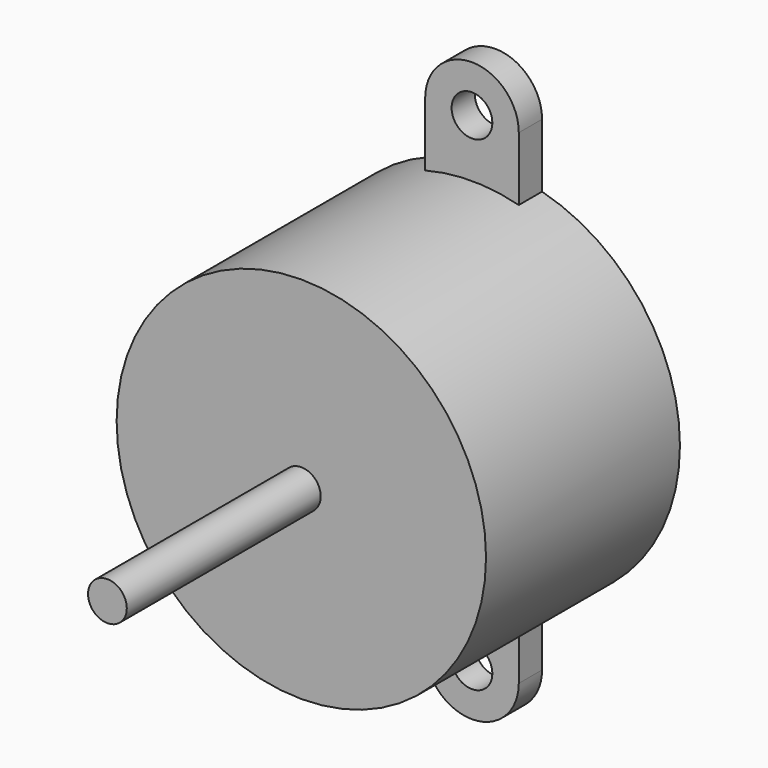
from build123d import *

# Parameters (mm, degrees)
F1_R     = 19.05
F2_DEPTH = 25
F3_R     = 2.1
F4_DEPTH = 3
F5_R     = 2
F6_DEPTH = 25


with BuildPart() as f2:
    # F1 (on offset) → F2 (new body)
    with BuildSketch(Plane.XZ):
        Circle(F1_R)
    extrude(amount=F2_DEPTH)

    # F3 (on offset) → F4 (join)
    with BuildSketch(Plane.XZ):
        with BuildLine():
            ThreePointArc((4.828854, 25), (0, 29.828854), (-4.828854, 25))
            Line((-4.828854, 25), (-4.828854, 18.427823))
            ThreePointArc((-4.828854, 18.427823), (0, 19.05), (4.828854, 18.427823))
            Line((4.828854, 18.427823), (4.828854, 25))
        make_face()
        with Locations((0, 25)):
            Circle(F3_R, mode=Mode.SUBTRACT)
        with BuildLine():
            ThreePointArc((-4.828854, -25), (0, -29.828854), (4.828854, -25))
            Line((4.828854, -25), (4.828854, -18.427823))
            ThreePointArc((4.828854, -18.427823), (0, -19.05), (-4.828854, -18.427823))
            Line((-4.828854, -18.427823), (-4.828854, -25))
        make_face()
        with Locations((0, -25)):
            Circle(F3_R, mode=Mode.SUBTRACT)
    extrude(amount=F4_DEPTH)

    # F5 (on face) → F6 (join)
    with BuildSketch(Plane.XZ.offset(25)):
        Circle(F5_R)
    extrude(amount=F6_DEPTH)


solid = f2.part
